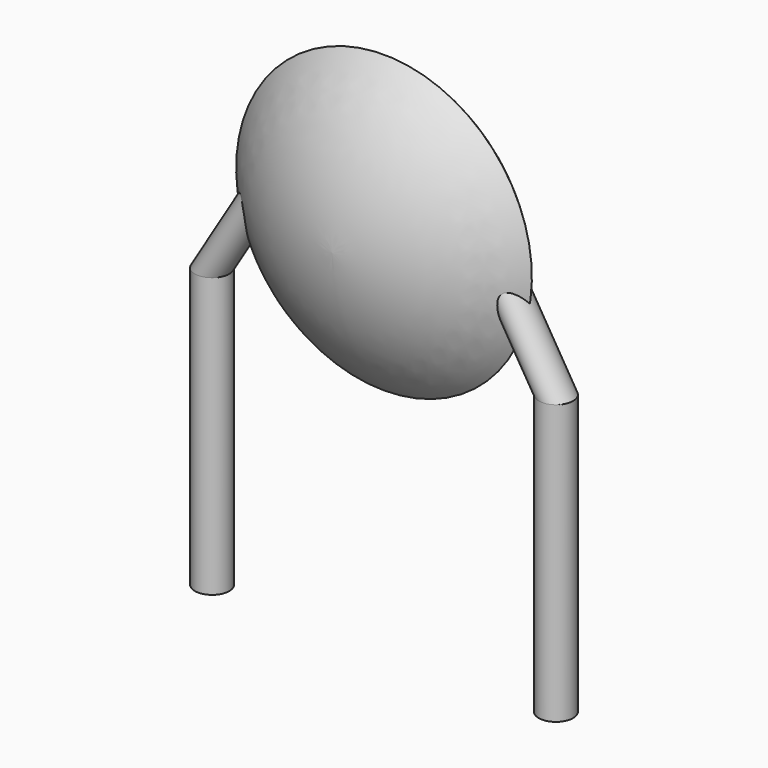
from build123d import *

# Parameters (mm, degrees)
SKETCH001_R       = 0.25
PAD001_DEPTH      = 0.86
PAD001_DEPTH_BACK = 3.2
SKETCH002_R       = 0.25
SKETCH003_R       = 0.25
SKETCH004_R       = 0.25
SKETCH005_R       = 0.25


with BuildPart() as pad001:
    # Sketch001 → Pad001 (new body, two sides)
    with BuildSketch(Plane.XY) as pad001_sk:
        Circle(SKETCH001_R)
        with Locations((5, 0)):
            Circle(SKETCH001_R)
    extrude(amount=PAD001_DEPTH)
    extrude(pad001_sk.sketch, amount=-PAD001_DEPTH_BACK)


with BuildPart() as revolution:
    # Sketch → Revolution (revolve)
    with BuildSketch(Plane.YZ.offset(2.5)):
        with BuildLine():
            Line((-0.95, 2.25), (0.95, 2.25))
            ThreePointArc((0, 0.1), (0.686403, 1.081589), (0.95, 2.25))
            ThreePointArc((-0.95, 2.25), (-0.686403, 1.081589), (0, 0.1))
        make_face()
    revolve(axis=Axis((2.5, -3.32079, 2.25), (0, 1, 0)))


with BuildPart() as loft_body:
    # Sketch002 → Loft section 0
    with BuildSketch(Plane.XY.offset(2.15)):
        with Locations((0.78, 0)):
            Circle(SKETCH002_R)
    # Sketch003 → Loft section 1
    with BuildSketch(Plane.XY.offset(0.86)):
        Circle(SKETCH003_R)
    loft()


with BuildPart() as loft001:
    # Sketch004 → Loft001 section 0
    with BuildSketch(Plane.XY.offset(0.86)):
        with Locations((5, 0)):
            Circle(SKETCH004_R)
    # Sketch005 → Loft001 section 1
    with BuildSketch(Plane.XY.offset(2.15)):
        with Locations((4.22, 0)):
            Circle(SKETCH005_R)
    loft()


solid = Compound([pad001.part, revolution.part, loft_body.part, loft001.part])
